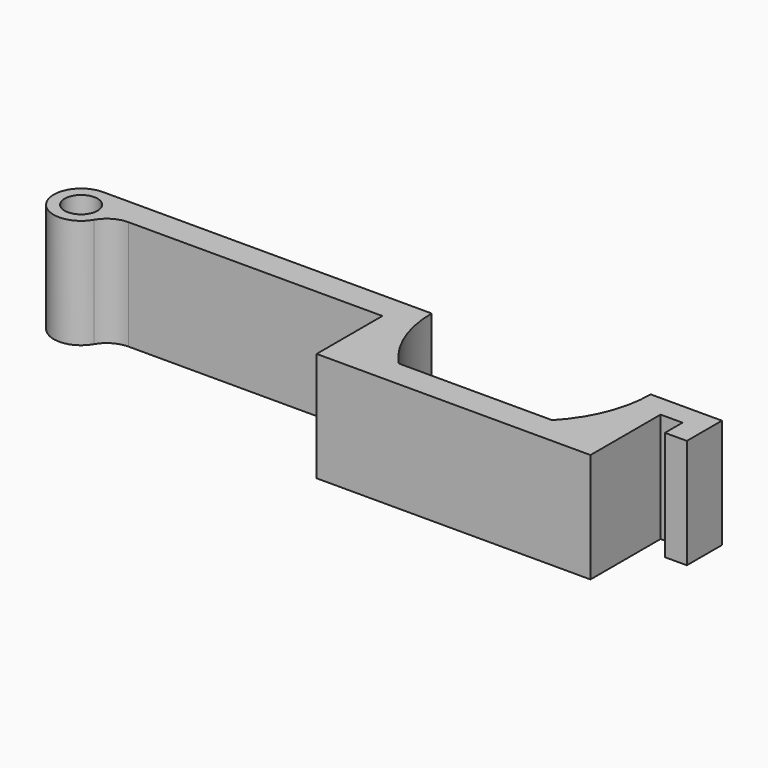
from build123d import *

# Parameters (mm, degrees)
PAD_DEPTH    = 10
PAD001_DEPTH = 10
SKETCH002_R  = 1.5
POCKET_DEPTH = 10.001


with BuildPart() as part:
    # Sketch → Pad (new body)
    with BuildSketch(Plane.XY):
        with BuildLine():
            ThreePointArc((25.669873, 10), (26.447689, 5.961126), (28.669873, 2.5))
            Line((28.669873, 2.5), (42.669873, 2.5))
            ThreePointArc((42.669873, 2.5), (44.892057, 5.961126), (45.669873, 10))
            Line((48.169873, 10), (45.669873, 10))
            Line((48.169873, 0), (48.169873, 10))
            Line((23.169873, 0), (48.169873, 0))
            Line((23.169873, 0), (23.169873, 7.5))
            Line((23.169873, 7.5), (0, 7.5))
            ThreePointArc((0, 7.5), (-1.25, 7.165064), (-2.165064, 6.25))
            ThreePointArc((-4.330127, 10), (-6.495191, 6.25), (-2.165064, 6.25))
            Line((-4.330127, 10), (23.169873, 10))
            Line((25.669873, 10), (23.169873, 10))
        make_face()
    extrude(amount=PAD_DEPTH)

    # Sketch001 (on Face12 of Pad) → Pad001 (join)
    with BuildSketch(Plane.XY.offset(10)):
        Polygon((48.169873, 10), (48.169873, 8), (50.169873, 8), (50.169873, 6), (52.169873, 6), (52.169873, 10), align=None)
    extrude(amount=-PAD001_DEPTH)

    # Sketch002 (on Face17 of Pad001) → Pocket (cut, through all)
    with BuildSketch(Plane.XY.offset(10)):
        with Locations((-4.330127, 7.5)):
            Circle(SKETCH002_R)
    extrude(amount=-POCKET_DEPTH, mode=Mode.SUBTRACT)


solid = part.part
